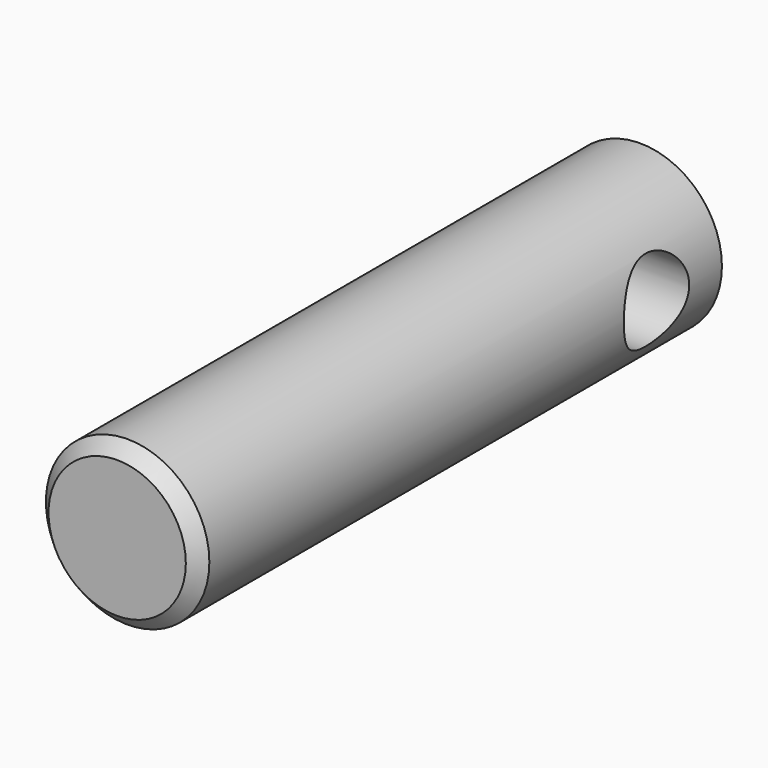
from build123d import *

# Parameters (mm, degrees)
F0_R     = 3.175
F1_DEPTH = 25.4
F2_SIZE  = 0.508
F3_R     = 1.5875
F4_DEPTH = 3.175


with BuildPart() as f1:
    # F0 (on Front) → F1 (new body)
    with BuildSketch(Plane.XZ):
        Circle(F0_R)
    extrude(amount=F1_DEPTH)

    # F2
    f2_edges = [f1.edges().sort_by_distance(p)[0] for p in [
        (-3.175, -25.4, 0),
    ]]
    chamfer(f2_edges, length=F2_SIZE)

    # F3 (on Right) → F4 (cut, symmetric)
    with BuildSketch(Plane.YZ):
        with Locations((-3.175, 0)):
            Circle(F3_R)
    extrude(amount=F4_DEPTH, both=True, mode=Mode.SUBTRACT)


solid = f1.part
